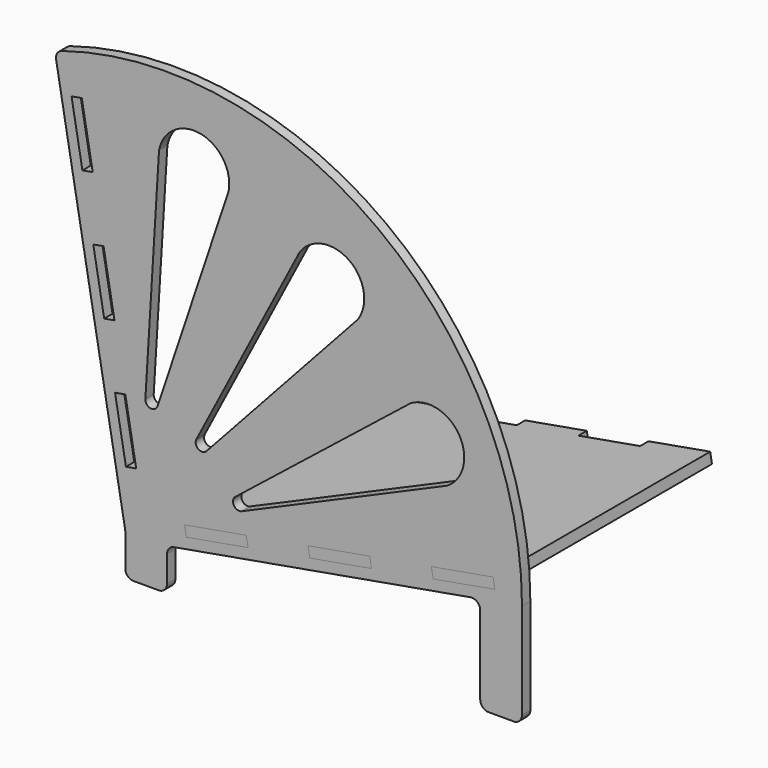
from build123d import *

# Parameters (mm, degrees)
F1_DEPTH = 3.175
F3_DEPTH = 3.176
F5_DEPTH = 3.175
F6_R     = 2.54


with BuildPart() as f1:
    # F0 (on Front) → F1 (new body)
    with BuildSketch(Plane.XZ):
        with BuildLine():
            Line((0, 12.7), (0, 0))
            Line((0, 0), (12.7, 0))
            Line((12.7, 0), (12.7, 12.7))
            Line((12.7, 12.7), (107.95, 29.495145))
            Line((107.95, 29.495145), (107.95, 0))
            Line((107.95, 0), (120.65, 0))
            Line((120.65, 0), (120.65, 31.734498))
            ThreePointArc((120.65, 31.734498), (75.828675, 119.30146), (-21.41527, 134.15203))
            Line((-21.41527, 134.15203), (0, 12.7))
        make_face()
    extrude(amount=F1_DEPTH)

    # F2 (on face) → F3 (cut, through all)
    with BuildSketch(Plane.XZ.offset(3.175)):
        Polygon((36.801461, 23.397697), (18.040874, 20.089699), (18.592207, 16.962934), (37.352794, 20.270932), align=None)
        Polygon((74.322637, 30.013692), (55.562049, 26.705695), (56.113382, 23.57893), (74.87397, 26.886928), align=None)
        Polygon((111.843812, 36.629688), (93.083224, 33.32169), (93.634557, 30.194926), (112.395145, 33.502923), align=None)
        Polygon((-6.414277, 67.361268), (-3.287512, 67.912601), (-6.59551, 86.673189), (-9.722275, 86.121856), align=None)
        Polygon((0.201719, 29.840093), (3.328483, 30.391426), (0.020486, 49.152013), (-3.106279, 48.60068), align=None)
        Polygon((-13.030272, 104.882444), (-9.903508, 105.433776), (-13.211506, 124.194364), (-16.33827, 123.643031), align=None)
        with BuildLine():
            Line((53.069141, 104.557378), (21.633255, 44.169602))
            ThreePointArc((21.633255, 44.169602), (22.230347, 41.729487), (24.727524, 42.002972))
            Line((24.727524, 42.002972), (70.721765, 92.196878))
            ThreePointArc((70.721765, 92.196878), (68.075703, 107.20344), (53.069141, 104.557378))
        make_face()
        with BuildLine():
            Line((86.759305, 74.998722), (33.479272, 32.617871))
            ThreePointArc((33.479272, 32.617871), (33.032259, 30.145855), (35.424779, 29.380003))
            Line((35.424779, 29.380003), (97.85831, 56.526875))
            ThreePointArc((97.85831, 56.526875), (101.544731, 71.312302), (86.759305, 74.998722))
        make_face()
        with BuildLine():
            Line((10.269057, 117.85753), (6.112867, 49.904425))
            ThreePointArc((6.112867, 49.904425), (7.650823, 47.918128), (9.820871, 49.183662))
            Line((9.820871, 49.183662), (31.423, 113.74562))
            ThreePointArc((31.423, 113.74562), (22.901983, 126.378546), (10.269057, 117.85753))
        make_face()
    extrude(amount=-F3_DEPTH, mode=Mode.SUBTRACT)

    # F6
    f6_edges = [f1.edges().sort_by_distance(p)[0] for p in [
        (0, -1.5875, 0),
        (120.65, -1.5875, 0),
        (107.95, -1.5875, 0),
        (12.7, -1.5875, 0),
        (12.7, -1.5875, 12.7),
        (107.95, -1.5875, 29.495145),
        (0, -1.5875, 12.7),
        (-21.41527, -1.5875, 134.15203),
    ]]
    fillet(f6_edges, radius=F6_R)


with BuildPart() as f5:
    # F4 (on face) → F5 (new body)
    with BuildSketch(Plane(origin=(-2.340209, 0, 13.271985), x_dir=(0.984808, 0, 0.173648), z_dir=(-0.173648, 0, 0.984808))):
        Polygon((97.455332, -3.175), (116.505332, -3.175), (116.505332, 0), (116.505332, 38.1), (116.505332, 76.2), (116.505332, 79.375), (97.455332, 79.375), (97.455332, 76.2), (78.405332, 76.2), (78.405332, 79.375), (59.355332, 79.375), (59.355332, 76.2), (40.305332, 76.2), (40.305332, 79.375), (21.255332, 79.375), (21.255332, 76.2), (21.255332, 38.1), (21.255332, 0), (21.255332, -3.175), (40.305332, -3.175), (40.305332, 0), (59.355332, 0), (59.355332, -3.175), (78.405332, -3.175), (78.405332, 0), (97.455332, 0), align=None)
    extrude(amount=F5_DEPTH)


solid = Compound([f1.part, f5.part])
